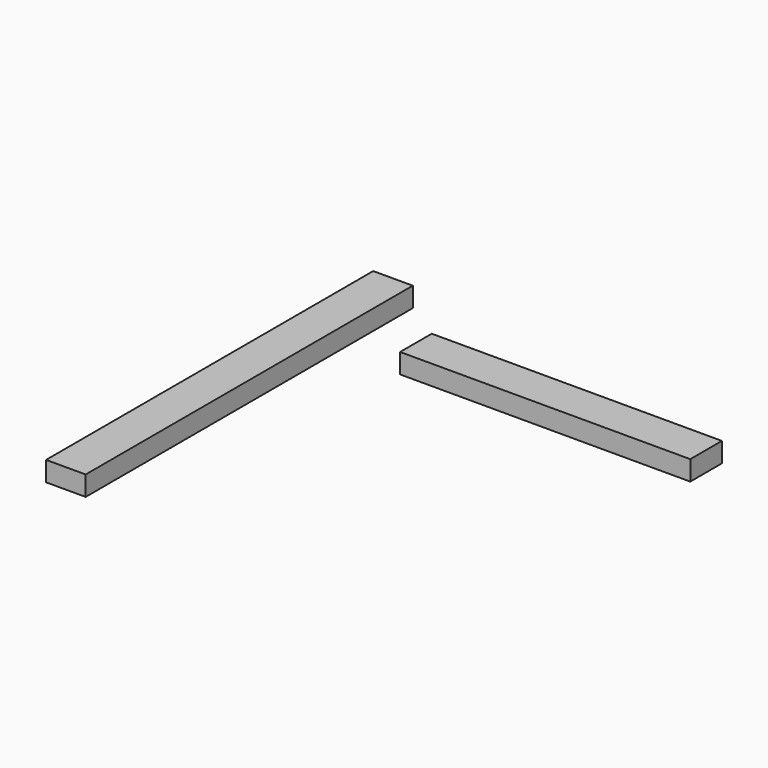
from build123d import *

# Parameters (mm, degrees)
F0_W     = 38.1
F0_H     = 19.05
F1_DEPTH = 279.4
F2_W     = 38.1
F2_H     = 19.05
F3_DEPTH = 393.7


with BuildPart() as f1:
    # F0 (on Right) → F1 (new body)
    with BuildSketch(Plane.YZ):
        with Locations((36.391488, -47.107239)):
            Rectangle(F0_W, F0_H)
    extrude(amount=F1_DEPTH)


with BuildPart() as f3:
    # F2 (on Front) → F3 (new body)
    with BuildSketch(Plane.XZ):
        with Locations((7.023689, 24.617738)):
            Rectangle(F2_W, F2_H)
    extrude(amount=F3_DEPTH)


solid = Compound([f1.part, f3.part])
